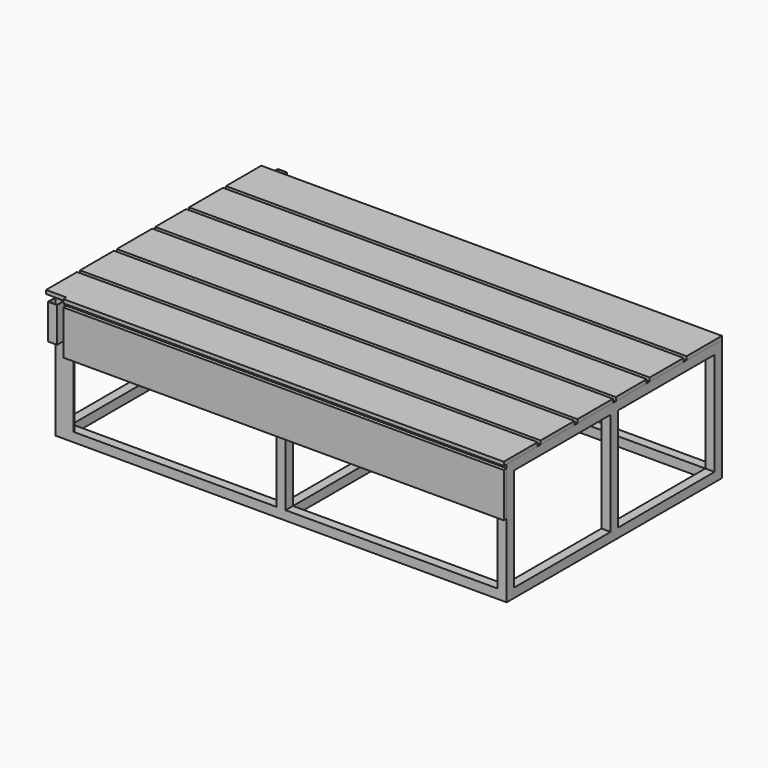
from build123d import *

# Parameters (mm, degrees)
F0_W      = 2450
F0_H      = 1460
F0_W_2    = 50
F0_H_2    = 1360
F1_DEPTH  = 50
F2_W      = 50
F2_H      = 50
F2_H_2    = 25
F3_DEPTH  = 560
F4_W      = 550
F4_H      = 1360
F5_DEPTH  = 50
F7_W      = 50
F7_H      = 50
F8_DEPTH  = 5
F9_W      = 46
F9_H      = 46
F10_DEPTH = 185
F12_W     = 50
F12_H     = 50
F13_DEPTH = 5
F14_W     = 46
F14_H     = 46
F15_DEPTH = 425
F16_W     = 5
F16_H     = 560
F17_DEPTH = 50
F18_W     = 2390
F18_H     = 240
F19_DEPTH = 20
F20_W     = 50
F20_H     = 1460
F20_W_2   = 550
F20_H_2   = 1360
F20_W_3   = 2390
F20_H_3   = 20
F21_DEPTH = 20
F23_W     = 20
F23_H     = 20
F24_DEPTH = 2500


with BuildPart() as f1:
    # F0 (on Top) → F1 (new body)
    with BuildSketch(Plane.XY):
        Rectangle(F0_W, F0_H)
        Polygon((-1175, -680), (-1175, 680), (-25, 680), (25, 680), (1175, 680), (1175, -680), (25, -680), (-25, -680), align=None, mode=Mode.SUBTRACT)
        Rectangle(F0_W_2, F0_H_2)
    extrude(amount=F1_DEPTH)

    # F2 (on face) → F3 (join)
    with BuildSketch(Plane.XY.offset(50)):
        with Locations((-1200, 705)):
            Rectangle(F2_W, F2_H)
        with Locations((0, 705)):
            Rectangle(F2_W, F2_H)
        with Locations((1200, 705)):
            Rectangle(F2_W, F2_H)
        with Locations((1200, -705)):
            Rectangle(F2_W, F2_H)
        with Locations((0, -705)):
            Rectangle(F2_W, F2_H)
        with Locations((-1200, -705)):
            Rectangle(F2_W, F2_H)
        with Locations((-1200, -12.5)):
            Rectangle(F2_W, F2_H_2)
        with Locations((-1200, 12.5)):
            Rectangle(F2_W, F2_H_2)
        Polygon((-25, -25), (25, -25), (25, 25), (-25, 25), (-25, 0), align=None)
        with Locations((1200, 0)):
            Rectangle(F2_W, F2_H)
    extrude(amount=F3_DEPTH)

    # F4 (on face) → F5 (join)
    with BuildSketch(Plane.XY.offset(610)):
        Polygon((-1225, 730), (-1225, 25), (-1225, -730), (1225, -730), (1225, 730), (-1175, 730), align=None)
        with Locations((-900, 0)):
            Rectangle(F4_W, F4_H, mode=Mode.SUBTRACT)
        with Locations((-300, 0)):
            Rectangle(F4_W, F4_H, mode=Mode.SUBTRACT)
        with Locations((300, 0)):
            Rectangle(F4_W, F4_H, mode=Mode.SUBTRACT)
        with Locations((900, 0)):
            Rectangle(F4_W, F4_H, mode=Mode.SUBTRACT)
    extrude(amount=F5_DEPTH)

    # F7 (on offset) → F8 (join)
    with BuildSketch(Plane.XY.offset(470)):
        with Locations((-1200, -755)):
            Rectangle(F7_W, F7_H)
    extrude(amount=F8_DEPTH)

    # F9 (on face) → F10 (join, through all)
    with BuildSketch(Plane.XY.offset(475)):
        Polygon((-1175, -730), (-1225, -730), (-1225, -780), (-1223, -780), (-1175, -780), align=None)
        with Locations((-1200, -755)):
            Rectangle(F9_W, F9_H, mode=Mode.SUBTRACT)
    extrude(amount=F10_DEPTH)

    # F12 (on offset) → F13 (join)
    with BuildSketch(Plane.XY.offset(230)):
        with Locations((-1200, 755)):
            Rectangle(F12_W, F12_H)
    extrude(amount=F13_DEPTH)

    # F14 (on face) → F15 (join, through all)
    with BuildSketch(Plane.XY.offset(235)):
        Polygon((-1223, 780), (-1225, 780), (-1225, 730), (-1175, 730), (-1175, 780), align=None)
        with Locations((-1200, 755)):
            Rectangle(F14_W, F14_H, mode=Mode.SUBTRACT)
    extrude(amount=F15_DEPTH)

    # F16 (on face) → F17 (join)
    with BuildSketch(Plane.YZ.offset(-1175)):
        with Locations((727.5, 330)):
            Rectangle(F16_W, F16_H)
        Polygon((-725, 610.0000000001), (-730, 610.0000000001), (-730, 470), (-730, 50), (-725, 50), align=None)
    extrude(amount=F17_DEPTH)


with BuildPart() as f19:
    # F18 (on face) → F19 (new body)
    with BuildSketch(Plane.XZ.offset(730)):
        with Locations((30, 520)):
            Rectangle(F18_W, F18_H)
    extrude(amount=F19_DEPTH)


with BuildPart() as f21:
    # F20 (on face) → F21 (new body)
    with BuildSketch(Plane.XY.offset(660)):
        with Locations((-1250, 0)):
            Rectangle(F20_W, F20_H)
        Polygon((1225, -730), (1225, 730), (-1175, 730), (-1225, 730), (-1225, -730), (-1175, -730), (-1165, -730), align=None)
        with Locations((-900, 0)):
            Rectangle(F20_W_2, F20_H_2, mode=Mode.SUBTRACT)
        with Locations((-300, 0)):
            Rectangle(F20_W_2, F20_H_2, mode=Mode.SUBTRACT)
        with Locations((300, 0)):
            Rectangle(F20_W_2, F20_H_2, mode=Mode.SUBTRACT)
        with Locations((900, 0)):
            Rectangle(F20_W_2, F20_H_2, mode=Mode.SUBTRACT)
        with Locations((-900, 0)):
            Rectangle(F20_W_2, F20_H_2)
        with Locations((-300, 0)):
            Rectangle(F20_W_2, F20_H_2)
        with Locations((300, 0)):
            Rectangle(F20_W_2, F20_H_2)
        with Locations((900, 0)):
            Rectangle(F20_W_2, F20_H_2)
        with Locations((30, -740)):
            Rectangle(F20_W_3, F20_H_3)
    extrude(amount=F21_DEPTH)

    # F23 (on face) → F24 (cut, through all)
    with BuildSketch(Plane(origin=(-1275, 0, 0), x_dir=(0, -1, 0), z_dir=(-1, 0, 0))):
        with Locations((510, 670)):
            Rectangle(F23_W, F23_H)
        with Locations((-480, 670)):
            Rectangle(F23_W, F23_H)
        with Locations((-230, 670)):
            Rectangle(F23_W, F23_H)
        with Locations((0, 670)):
            Rectangle(F23_W, F23_H)
        with Locations((260, 670)):
            Rectangle(F23_W, F23_H)
    extrude(amount=-F24_DEPTH, mode=Mode.SUBTRACT)


solid = Compound([f1.part, f19.part, f21.part])
